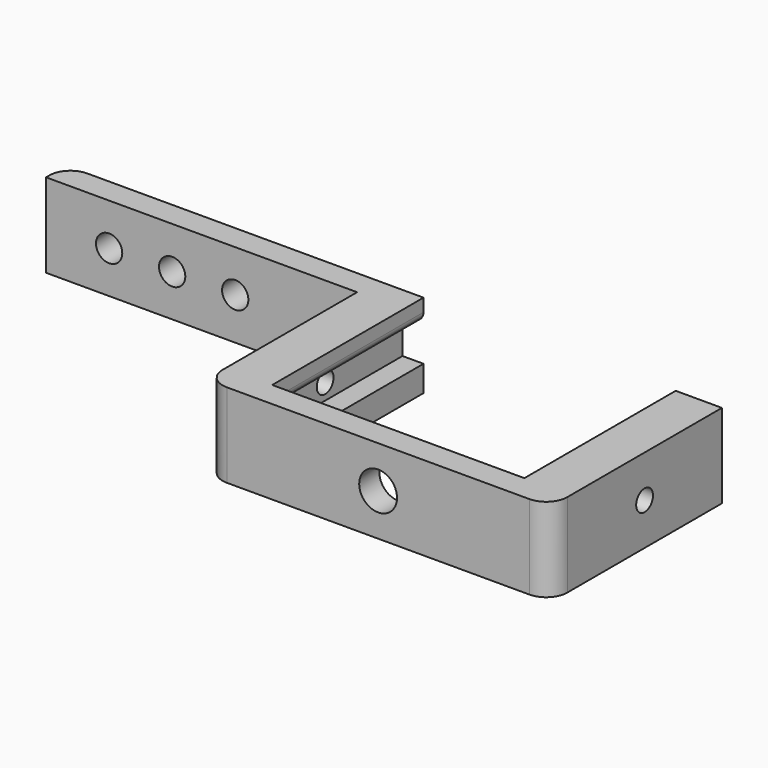
from build123d import *

# Parameters (mm, degrees)
F1_DEPTH = 20
F3_D     = 6.2484
F5_W     = 45
F5_H     = 5.25
F5_H_2   = 6.15
F6_DEPTH = 5
F4_W     = 45
F4_H     = 5.25
F4_H_2   = 6.15
F7_DEPTH = 5
F8_R     = 5
F9_R     = 2.193764509
F11_D    = 9
F13_D    = 5


with BuildPart() as f1:
    # F0 (on Top) → F1 (new body)
    with BuildSketch(Plane.XY):
        Polygon((80, 0), (0, 0), (0, -6), (74, -6), (74, -51), (156, -51), (156, 0), (150, 0), (150, -45), (80, -45), align=None)
    extrude(amount=F1_DEPTH)

    # F3 (through all)
    with Locations(Plane(origin=(0, 0, 0), x_dir=(-1, 0, 0), z_dir=(0, 1, 0))):
        with Locations((-45, 10), (-30, 10), (-15, 10)):
            Hole(F3_D / 2)

    # F5 (on face) → F6 (join)
    with BuildSketch(Plane(origin=(150, 0, 0), x_dir=(0, -1, 0), z_dir=(-1, 0, 0))):
        with Locations((22.5, 17.375)):
            Rectangle(F5_W, F5_H)
        with Locations((22.5, 3.075)):
            Rectangle(F5_W, F5_H_2)
    extrude(amount=F6_DEPTH)

    # F4 (on face) → F7 (join)
    with BuildSketch(Plane.YZ.offset(80)):
        with Locations((-22.5, 17.375)):
            Rectangle(F4_W, F4_H)
        with Locations((-22.5, 3.075)):
            Rectangle(F4_W, F4_H_2)
    extrude(amount=F7_DEPTH)

    # F8
    f8_edges = [f1.edges().sort_by_distance(p)[0] for p in [
        (74, -51, 10),
        (156, -51, 10),
        (0, 0, 10),
    ]]
    fillet(f8_edges, radius=F8_R)

    # F9
    f9_edges = [f1.edges().sort_by_distance(p)[0] for p in [
        (85, -22.5, 14.75),
        (145, -22.5, 14.75),
    ]]
    fillet(f9_edges, radius=F9_R)

    # F11 (through all)
    with Locations(Plane.XZ.offset(51)):
        with Locations((115, 10)):
            Hole(F11_D / 2)

    # F13 (through all)
    with Locations(Plane.YZ.offset(156)):
        with Locations((-23, 10)):
            Hole(F13_D / 2)


solid = f1.part
